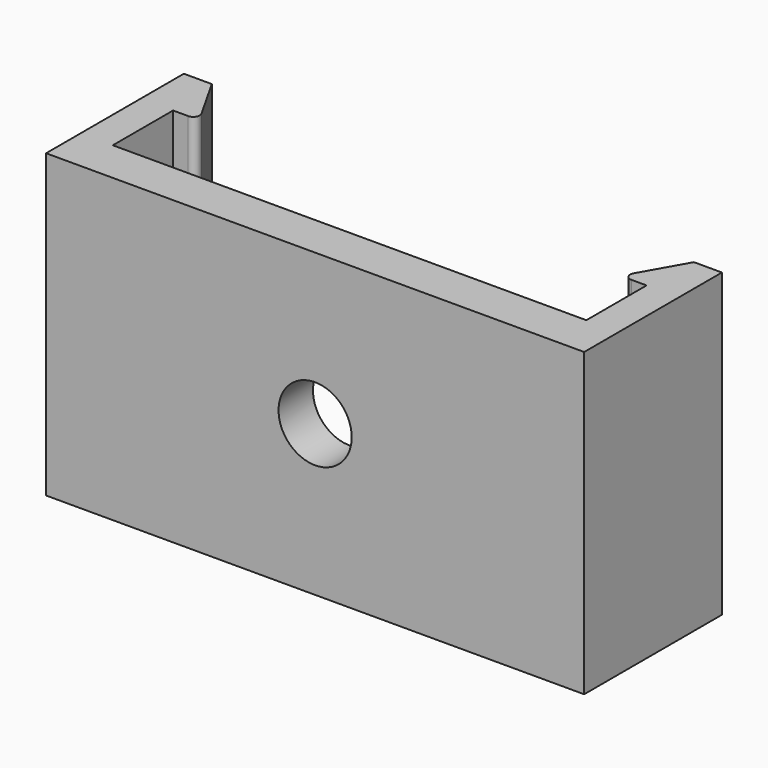
from build123d import *

# Parameters (mm, degrees)
PAD_DEPTH    = 14
SKETCH001_R  = 1.7
POCKET_DEPTH = 8.001


with BuildPart() as part:
    # Sketch → Pad (new body)
    with BuildSketch(Plane.XY):
        with BuildLine():
            Line((-12.5, 0), (12.5, 0))
            Line((12.5, 0), (12.5, 8))
            Line((12.5, 8), (11.2, 8))
            Line((11.2, 8), (10.038893, 5.947726))
            ThreePointArc((10.038893, 5.947726), (10.04085, 5.648867), (10.3, 5.5))
            Line((10.3, 5.5), (11, 5.5))
            Line((11, 5.5), (11, 2))
            Line((11, 2), (-11, 2))
            Line((-11, 2), (-11, 5.5))
            Line((-11, 5.5), (-10.3, 5.5))
            ThreePointArc((-10.3, 5.5), (-10.04085, 5.648867), (-10.038893, 5.947726))
            Line((-10.038893, 5.947726), (-11.2, 8))
            Line((-11.2, 8), (-12.5, 8))
            Line((-12.5, 8), (-12.5, 0))
        make_face()
    extrude(amount=PAD_DEPTH)

    # Sketch001 → Pocket (cut, through all)
    with BuildSketch(Plane.XZ):
        with Locations((0, 7)):
            Circle(SKETCH001_R)
    extrude(amount=-POCKET_DEPTH, mode=Mode.SUBTRACT)


solid = part.part
